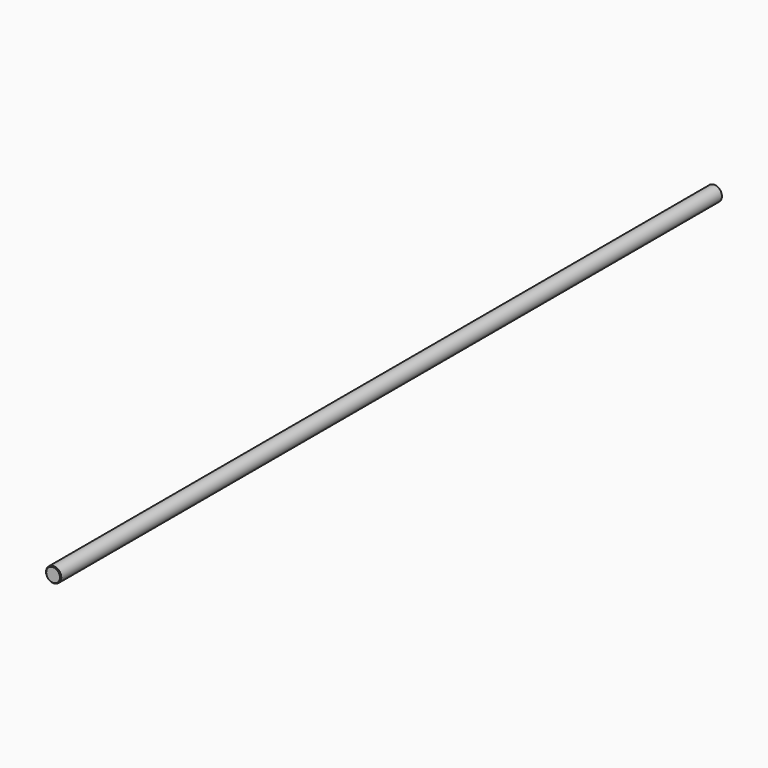
from build123d import *

# Parameters (mm, degrees)
F0_R     = 15.875
F1_DEPTH = 863.6
F2_SIZE  = 1.524


with BuildPart() as f1:
    # F0 (on Front) → F1 (new body, symmetric)
    with BuildSketch(Plane.XZ):
        with Locations((3.9237048477, 0)):
            Circle(F0_R)
    extrude(amount=F1_DEPTH, both=True)

    # F2
    f2_edges = [f1.edges().sort_by_distance(p)[0] for p in [
        (-11.951295, -863.6, 0),
        (-11.951295, 863.6, 0),
    ]]
    chamfer(f2_edges, length=F2_SIZE)


solid = f1.part
